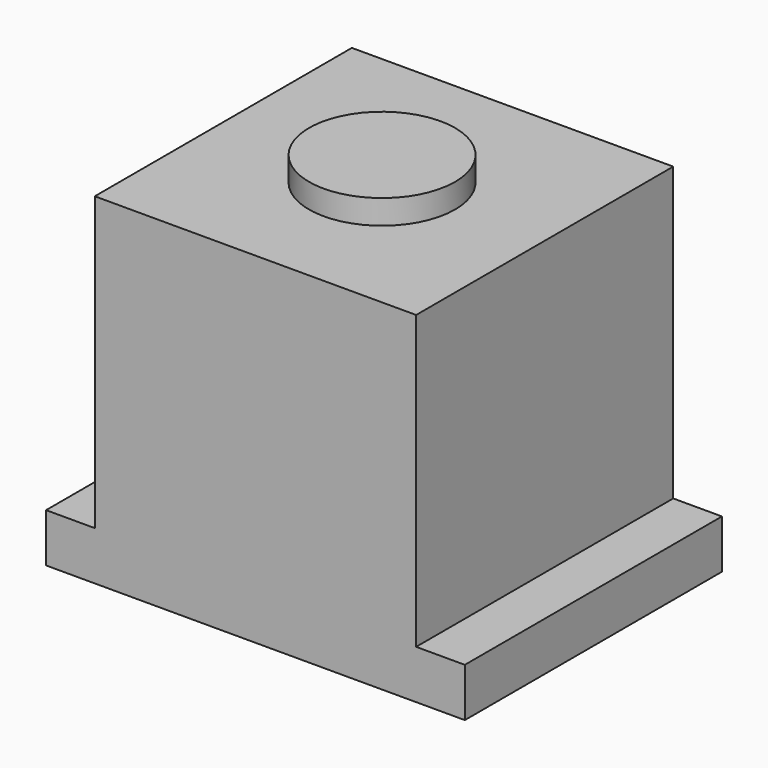
from build123d import *

# Parameters (mm, degrees)
SKETCH014_W      = 2.5
SKETCH014_H      = 3.5
EXTRUDE015_DEPTH = 4.5
EXTRUDE014_DEPTH = 6.6
SKETCH039_R      = 1.5
EXTRUDE047_DEPTH = 0.5


with BuildPart() as extrude015:
    # Sketch014 → Extrude015 (new body)
    with BuildSketch(Plane(origin=(0, 0, -10), x_dir=(1, 0, 0), z_dir=(0, 0, -1))):
        Rectangle(SKETCH014_W, SKETCH014_H)
    extrude(amount=-EXTRUDE015_DEPTH)


with BuildPart() as extrude015_1:
    # Extrude015 placement: moved
    add(extrude015.part.moved(Location((0, 0, 10))))


with BuildPart() as cap003:
    # Sketch013 → Extrude014 (new body)
    with BuildSketch(Plane.XZ.offset(10)):
        Polygon((-3.3, 7), (3.3, 7), (3.3, 1), (4.3, 1), (4.3, 0), (-4.3, 0), (-4.3, 1), (-3.3, 1), align=None)
    extrude(amount=-EXTRUDE014_DEPTH)


with BuildPart() as cap003_1:
    # Extrude014 placement: moved
    add(cap003.part.moved(Location((0, 6.75, 0))))

    # Cut023: cut Extrude015
    add(extrude015_1.part, mode=Mode.SUBTRACT)


with BuildPart() as shutter:
    # Sketch039 → Extrude047 (new body)
    with BuildSketch(Plane.XY.offset(20)):
        Circle(SKETCH039_R)
    extrude(amount=EXTRUDE047_DEPTH)


with BuildPart() as shutter_1:
    # Extrude047 placement: moved
    add(shutter.part.moved(Location((0, 0, -13))))

    # Fusion035: union cap003
    add(cap003_1.part)


with BuildPart() as shutter_2:
    # Fusion035 placement: moved
    add(shutter_1.part.moved(Location((-22.5, 0, 50))))


solid = shutter_2.part
